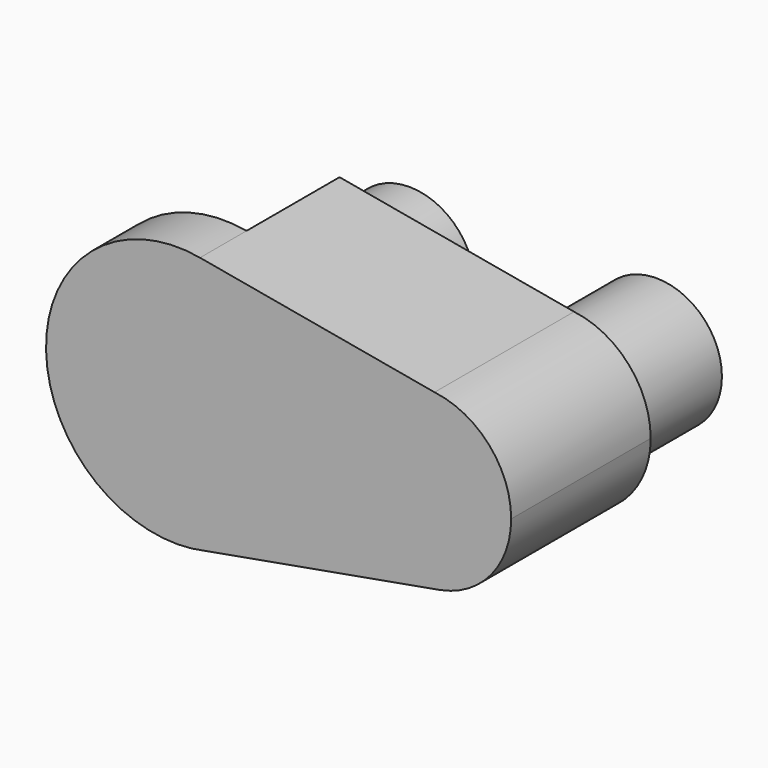
from build123d import *

# Parameters (mm, degrees)
F1_DEPTH = 63.5
F2_DEPTH = 12.7
F0_R     = 14.2875
F3_DEPTH = 38.1
F4_DEPTH = 63.5


with BuildPart() as f1:
    # F0 (on Front) → F1 (new body)
    with BuildSketch(Plane.XZ):
        with BuildLine():
            Line((-28.9843866844, 4.7399969062), (-2.0436183212, 4.7399969062))
            ThreePointArc((-2.0436183212, 4.7399969062), (-15.5140025028, 14.2649969062), (-28.9843866844, 4.7399969062))
        make_face()
        with BuildLine():
            ThreePointArc((-2.0436183212, -4.7850030938), (-1.4322630818, -2.4385476149), (-1.2265025028, -0.0225030938))
            ThreePointArc((-1.2265025028, -0.0225030938), (-1.4322630818, 2.3935414272), (-2.0436183212, 4.7399969062))
            Line((-2.0436183212, 4.7399969062), (-28.9843866844, 4.7399969062))
            ThreePointArc((-28.9843866844, 4.7399969062), (-29.8015025028, -0.0225030938), (-28.9843866844, -4.7850030938))
            Line((-28.9843866844, -4.7850030938), (-2.0436183212, -4.7850030938))
        make_face()
        with BuildLine():
            ThreePointArc((-28.9843866844, -4.7850030938), (-15.5140025028, -14.3100030938), (-2.0436183212, -4.7850030938))
            Line((-2.0436183212, -4.7850030938), (-28.9843866844, -4.7850030938))
        make_face()
        with BuildLine():
            ThreePointArc((-2.0436183212, 4.7399969062), (-1.4322630818, 2.3935414272), (-1.2265025028, -0.0225030938))
            ThreePointArc((-1.2265025028, -0.0225030938), (-1.4322630818, -2.4385476149), (-2.0436183212, -4.7850030938))
            Line((-2.0436183212, -4.7850030938), (3.5359974972, -4.7850030938))
            Line((3.5359974972, -4.7850030938), (3.5359974972, 4.7399969062))
            Line((3.5359974972, 4.7399969062), (-2.0436183212, 4.7399969062))
        make_face()
    extrude(amount=-F1_DEPTH)

    # F0 (on Front) → F2 (join)
    with BuildSketch(Plane.XZ):
        with BuildLine():
            ThreePointArc((-9.1005831185, -27.8684844341), (6.8443749417, -17.8167039201), (13.0609974972, -0.0225030938))
            ThreePointArc((13.0609974972, -0.0225030938), (6.4072485943, 18.3075098722), (-10.4553192367, 28.1011586274))
            ThreePointArc((-10.4553192367, 28.1011586274), (-44.0806355021, -0.713953805), (-9.1005831185, -27.8684844341))
        make_face()
        with BuildLine():
            ThreePointArc((-28.9843866844, 4.7399969062), (-15.5140025028, 14.2649969062), (-2.0436183212, 4.7399969062))
            Line((-2.0436183212, 4.7399969062), (3.5359974972, 4.7399969062))
            Line((3.5359974972, 4.7399969062), (3.5359974972, -4.7850030938))
            Line((3.5359974972, -4.7850030938), (-2.0436183212, -4.7850030938))
            ThreePointArc((-2.0436183212, -4.7850030938), (-15.5140025028, -14.3100030938), (-28.9843866844, -4.7850030938))
            Line((-28.9843866844, -4.7850030938), (-34.5640025028, -4.7850030938))
            Line((-34.5640025028, -4.7850030938), (-34.5640025028, 4.7399969062))
            Line((-34.5640025028, 4.7399969062), (-28.9843866844, 4.7399969062))
        make_face(mode=Mode.SUBTRACT)
        with BuildLine():
            ThreePointArc((-28.9843866844, -4.7850030938), (-29.8015025028, -0.0225030938), (-28.9843866844, 4.7399969062))
            Line((-28.9843866844, 4.7399969062), (-34.5640025028, 4.7399969062))
            Line((-34.5640025028, 4.7399969062), (-34.5640025028, -4.7850030938))
            Line((-34.5640025028, -4.7850030938), (-28.9843866844, -4.7850030938))
        make_face()
    extrude(amount=-F2_DEPTH)

    # F0 (on Front) → F3 (join)
    with BuildSketch(Plane.XZ):
        with BuildLine():
            ThreePointArc((-10.4553192367, 28.1011586274), (6.4072485943, 18.3075098722), (13.0609974972, -0.0225030938))
            ThreePointArc((13.0609974972, -0.0225030938), (6.8443749417, -17.8167039201), (-9.1005831185, -27.8684844341))
            Line((-9.1005831185, -27.8684844341), (41.4850136025, -18.8309540294))
            ThreePointArc((41.4850136025, -18.8309540294), (19.4144080306, -0.3829607102), (40.7712014453, 18.8868982113))
            Line((40.7712014453, 18.8868982113), (-10.4553192367, 28.1011586274))
        make_face()
        with BuildLine():
            ThreePointArc((57.5109974972, -0.0225030938), (52.7247958204, 12.6047118562), (40.7712014453, 18.8868982113))
            ThreePointArc((40.7712014453, 18.8868982113), (19.4144080306, -0.3829607102), (41.4850136025, -18.8309540294))
            Line((41.4850136025, -18.8309540294), (42.136745961, -18.7145167154))
            ThreePointArc((42.136745961, -18.7145167154), (53.1736707457, -12.1237322001), (57.5109974972, -0.0225030938))
        make_face()
        with Locations((38.4609974972, -0.0225030938)):
            Circle(F0_R, mode=Mode.SUBTRACT)
    extrude(amount=-F3_DEPTH)

    # F0 (on Front) → F4 (join)
    with BuildSketch(Plane.XZ):
        with Locations((38.4609974972, -0.0225030938)):
            Circle(F0_R)
    extrude(amount=-F4_DEPTH)


solid = f1.part
